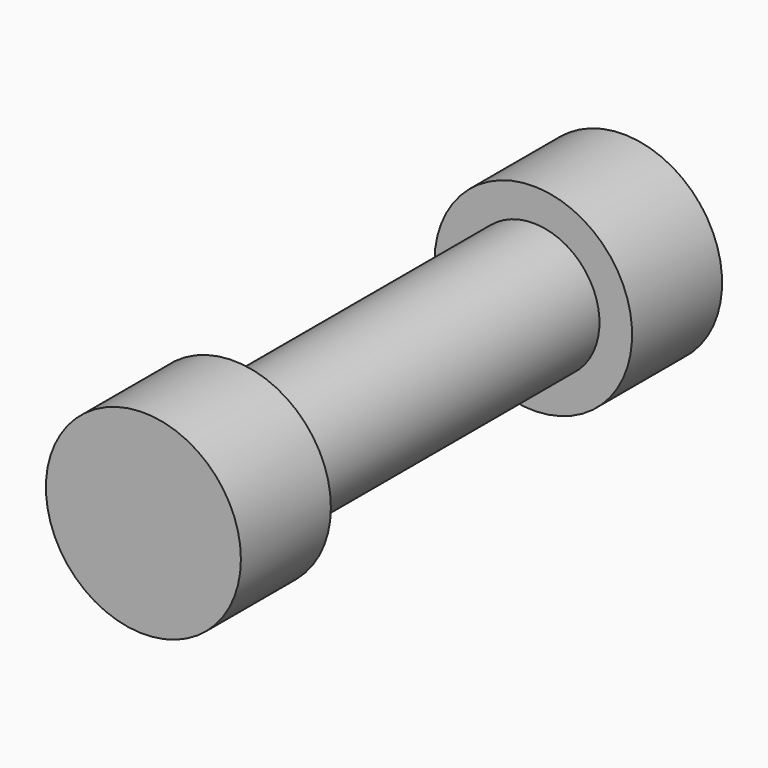
from build123d import *

# Parameters (mm, degrees)
F0_R     = 3.302961
F1_DEPTH = 3.81
F2_R     = 2.241818
F3_DEPTH = 12.7
F4_R     = 3.347199
F5_DEPTH = 3.81


with BuildPart() as f1:
    # F0 (on Front) → F1 (new body)
    with BuildSketch(Plane.XZ):
        Circle(F0_R)
    extrude(amount=-F1_DEPTH)

    # F2 (on face) → F3 (join)
    with BuildSketch(Plane(origin=(0, 3.81, 0), x_dir=(-1, 0, 0), z_dir=(0, 1, 0))):
        Circle(F2_R)
    extrude(amount=F3_DEPTH)

    # F4 (on face) → F5 (join)
    with BuildSketch(Plane(origin=(0, 16.51, 0), x_dir=(-1, 0, 0), z_dir=(0, 1, 0))):
        Circle(F4_R)
    extrude(amount=F5_DEPTH)


solid = f1.part
